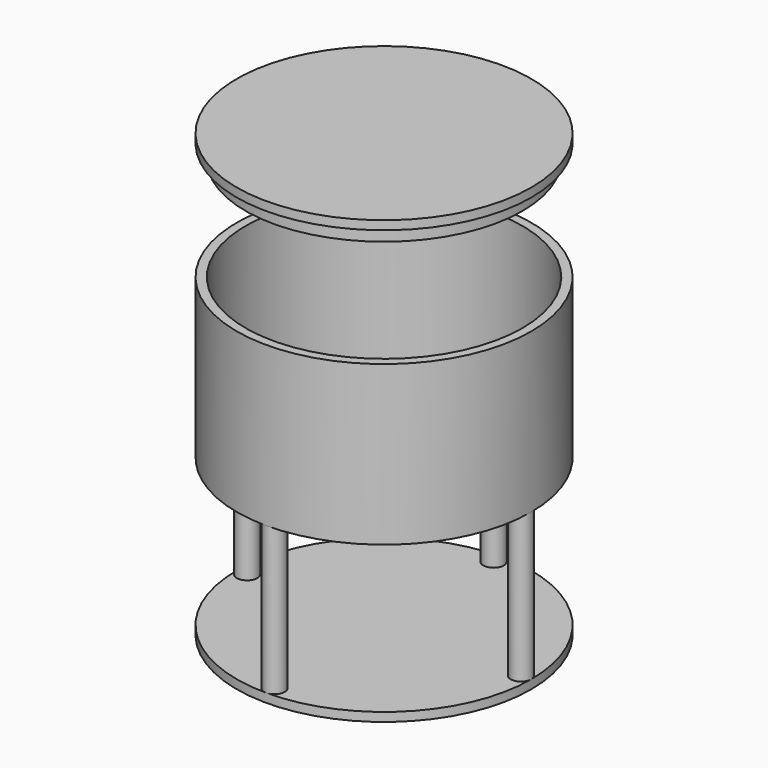
from build123d import *

# Parameters (mm, degrees)
SKETCH_R                = 50
PAD_DEPTH               = 3
SKETCH001_R             = 3.5
SKETCH001_R_2           = 1.5
PAD001_DEPTH            = 50
POLARPATTERN_COUNT      = 4
SKETCH002_R             = 50
PAD002_DEPTH            = 4
SKETCH003_R             = 50
SKETCH003_R_2           = 47
PAD003_DEPTH            = 50
SKETCH007_R             = 5
POCKET_DEPTH            = 15
SKETCH008_R             = 5
POCKET001_DEPTH         = 15
SKETCH009_R             = 5
POCKET002_DEPTH         = 15
SKETCH010_R             = 5
POCKET003_DEPTH         = 15
SKETCH004_R             = 50
PAD004_DEPTH            = 3
SKETCH005_R             = 47
SKETCH005_R_2           = 45
PAD005_DEPTH            = 5
BODY001_PLACEMENT_ANGLE = 180


with BuildPart() as body:
    # Sketch → Pad (new body)
    with BuildSketch(Plane.XY):
        Circle(SKETCH_R)
    extrude(amount=PAD_DEPTH)

    # Sketch001 (on Face3 of Pad) → Pad001 (join)
    with BuildSketch(Plane.XY.offset(3)):
        with Locations((46.5, 0)):
            Circle(SKETCH001_R)
        with Locations((46.5, 0)):
            Circle(SKETCH001_R_2, mode=Mode.SUBTRACT)
    pad001 = extrude(amount=PAD001_DEPTH)

    # PolarPattern: Pad001 ×4 about axis
    polarpattern_axis = Axis((0, 0, 3), (0, 0, 1))
    for i in range(1, POLARPATTERN_COUNT):
        add(pad001.rotate(polarpattern_axis, i * 360 / POLARPATTERN_COUNT))

    # Sketch002 (on Face10 of PolarPattern) → Pad002 (join)
    with BuildSketch(Plane.XY.offset(53)):
        Circle(SKETCH002_R)
    extrude(amount=PAD002_DEPTH)

    # Sketch003 (on Face10 of Pad002) → Pad003 (join)
    with BuildSketch(Plane.XY.offset(57)):
        Circle(SKETCH003_R)
        Circle(SKETCH003_R_2, mode=Mode.SUBTRACT)
    extrude(amount=PAD003_DEPTH)

    # Sketch007 (on DatumPlane) → Pocket (cut)
    with BuildSketch(Plane(origin=(0, 0, 90), x_dir=(0.579228, 0.579228, -0.573576), z_dir=(0.40558, 0.40558, 0.819152))):
        with Locations((52.428168, 0)):
            Circle(SKETCH007_R)
    extrude(amount=-POCKET_DEPTH, mode=Mode.SUBTRACT)

    # Sketch008 (on DatumPlane) → Pocket001 (cut)
    with BuildSketch(Plane(origin=(0, 0, 90), x_dir=(0.707107, 0.707107, 0), z_dir=(0.40558, -0.40558, 0.819152))):
        with Locations((0, -52.428168)):
            Circle(SKETCH008_R)
    extrude(amount=-POCKET001_DEPTH, mode=Mode.SUBTRACT)

    # Sketch009 (on DatumPlane) → Pocket002 (cut)
    with BuildSketch(Plane(origin=(0, 0, 90), x_dir=(0.707107, -0.707107, 0), z_dir=(-0.40558, -0.40558, 0.819152))):
        with Locations((0, -52.428168)):
            Circle(SKETCH009_R)
    extrude(amount=-POCKET002_DEPTH, mode=Mode.SUBTRACT)

    # Sketch010 (on DatumPlane) → Pocket003 (cut)
    with BuildSketch(Plane(origin=(0, 0, 90), x_dir=(-0.707107, -0.707107, 0), z_dir=(-0.40558, 0.40558, 0.819152))):
        with Locations((0, -52.428168)):
            Circle(SKETCH010_R)
    extrude(amount=-POCKET003_DEPTH, mode=Mode.SUBTRACT)


with BuildPart() as cap:
    # Sketch004 → Pad004 (new body)
    with BuildSketch(Plane.XY):
        Circle(SKETCH004_R)
    extrude(amount=PAD004_DEPTH)

    # Sketch005 (on Face3 of Pad004) → Pad005 (join)
    with BuildSketch(Plane.XY.offset(3)):
        Circle(SKETCH005_R)
        Circle(SKETCH005_R_2, mode=Mode.SUBTRACT)
    extrude(amount=PAD005_DEPTH)


with BuildPart() as cap_1:
    # Body001 placement: moved
    add(cap.part.moved(Location((0, 0, 150))).rotate(Axis((0, 0, 150), (1, 0, 0)), BODY001_PLACEMENT_ANGLE))


solid = Compound([body.part, cap_1.part])
